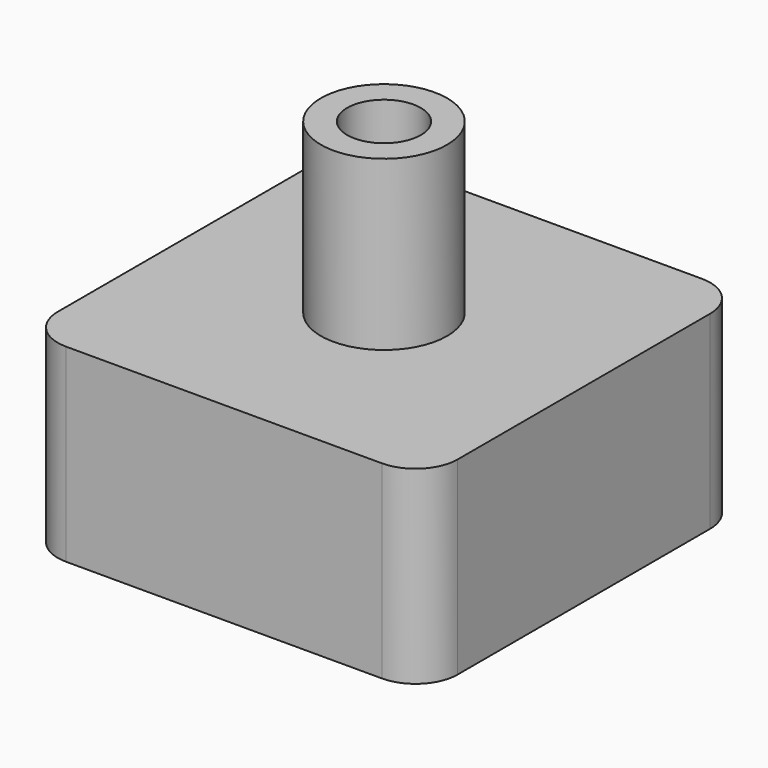
from build123d import *

# Parameters (mm, degrees)
F1_DEPTH  = 9.5
F2_R      = 3
F3_DEPTH  = 8
F4_R      = 1.75
F5_DEPTH  = 17
F6_W      = 16
F6_H      = 16
F6_W_2    = 15
F6_H_2    = 15
F7_DEPTH  = 5
F8_R      = 2
F9_R      = 4
F9_R_2    = 1.75
F10_DEPTH = 7.5


with BuildPart() as f1:
    # F0 (on Front) → F1 (new body, symmetric)
    with BuildSketch(Plane.XZ):
        Polygon((-9.5, 0), (0, 0), (9.5, 0), (9.5, 9), (-9.5, 9), align=None)
    extrude(amount=F1_DEPTH, both=True)

    # F2 (on face) → F3 (join)
    with BuildSketch(Plane.XY.offset(9)):
        Circle(F2_R)
    extrude(amount=F3_DEPTH)

    # F4 (on face) → F5 (cut)
    with BuildSketch(Plane.XY.offset(17)):
        Circle(F4_R)
    extrude(amount=-F5_DEPTH, mode=Mode.SUBTRACT)

    # F6 (on face) → F7 (cut)
    with BuildSketch(Plane(origin=(0, 0, 0), x_dir=(1, 0, 0), z_dir=(0, 0, -1))):
        Rectangle(F6_W, F6_H)
        Rectangle(F6_W_2, F6_H_2, mode=Mode.SUBTRACT)
    extrude(amount=-F7_DEPTH, mode=Mode.SUBTRACT)

    # F8
    f8_edges = [f1.edges().sort_by_distance(p)[0] for p in [
        (-9.5, -9.5, 4.5),
        (9.5, -9.5, 4.5),
        (-9.5, 9.5, 4.5),
        (9.5, 9.5, 4.5),
    ]]
    fillet(f8_edges, radius=F8_R)

    # F9 (on face) → F10 (cut)
    with BuildSketch(Plane(origin=(0, 0, 0), x_dir=(1, 0, 0), z_dir=(0, 0, -1))):
        Circle(F9_R)
        Circle(F9_R_2, mode=Mode.SUBTRACT)
    extrude(amount=-F10_DEPTH, mode=Mode.SUBTRACT)


solid = f1.part
